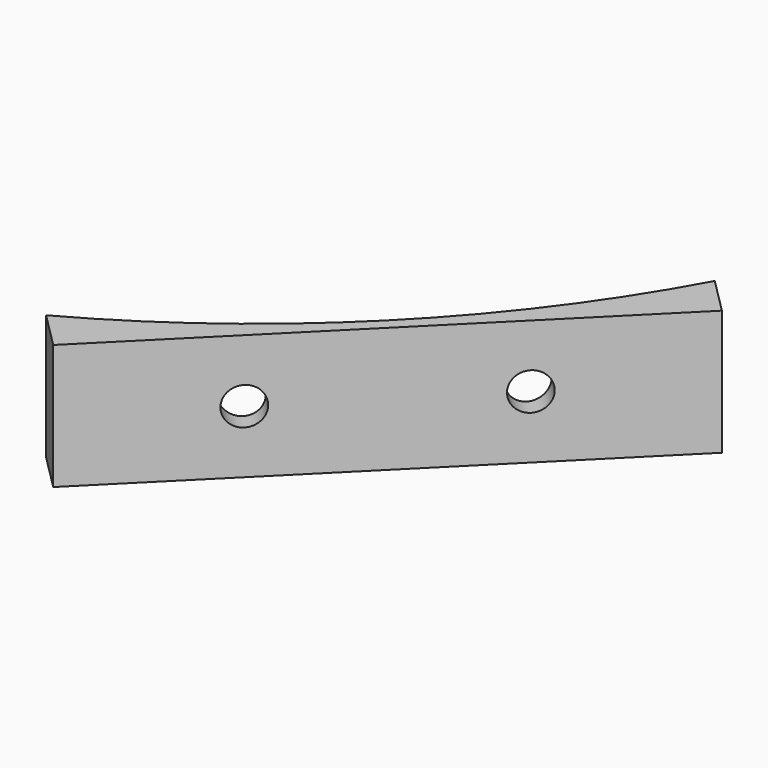
from build123d import *

# Parameters (mm, degrees)
CYLINDER1984_R               = 1.5
CYLINDER1984_DEPTH           = 50
COMPOUND1069_PLACEMENT_ANGLE = 225
CYLINDER1985_R               = 1.5
CYLINDER1985_DEPTH           = 50
COMPOUND1070_PLACEMENT_ANGLE = 225
CYLINDER1983_R               = 74
CYLINDER1983_DEPTH           = 40
BOX984_W                     = 42
BOX984_H                     = 8
BOX984_DEPTH                 = 10
COMPOUND1068_PLACEMENT_ANGLE = 225


with BuildPart() as compound1069:
    # Cylinder1984 → Cylinder1984 (new body)
    with BuildSketch(Plane(origin=(9, 100, 59), x_dir=(1, 0, 0), z_dir=(0, -1, 0))):
        Circle(CYLINDER1984_R)
    extrude(amount=CYLINDER1984_DEPTH)


with BuildPart() as compound1069_1:
    # Compound1069 placement: moved
    add(compound1069.part.rotate(Axis((0, 0, 0), (0, 0, 1)), COMPOUND1069_PLACEMENT_ANGLE))


with BuildPart() as compound1071:
    # Cylinder1985 → Cylinder1985 (new body)
    with BuildSketch(Plane(origin=(-9, 100, 59), x_dir=(1, 0, 0), z_dir=(0, -1, 0))):
        Circle(CYLINDER1985_R)
    extrude(amount=CYLINDER1985_DEPTH)


with BuildPart() as compound1071_1:
    # Compound1070 placement: moved
    add(compound1071.part.rotate(Axis((0, 0, 0), (0, 0, 1)), COMPOUND1070_PLACEMENT_ANGLE))

    # Compound1071: union Compound1069
    add(compound1069_1.part)


with BuildPart() as compound1071_2:
    # Compound1071 placement: moved
    add(compound1071_1.part.moved(Location((0, 0, 1))))


with BuildPart() as obj1:
    # Cylinder1983 → Cylinder1983 (new body)
    with BuildSketch(Plane.XY.offset(44)):
        Circle(CYLINDER1983_R)
    extrude(amount=CYLINDER1983_DEPTH)


with BuildPart() as cut668:
    # Box984 → Box984 (new body)
    with BuildSketch(Plane(origin=(-21, -23, 22), x_dir=(1, 0, 0), z_dir=(0, 0, 1))):
        with Locations((21, 4)):
            Rectangle(BOX984_W, BOX984_H)
    extrude(amount=BOX984_DEPTH)


with BuildPart() as cut668_1:
    # Compound1068 placement: moved
    add(cut668.part.moved(Location((63.64, -63.64, 43))).rotate(Axis((63.64, -63.64, 43), (0, 0, 1)), COMPOUND1068_PLACEMENT_ANGLE))

    # Cut667: cut obj1
    add(obj1.part, mode=Mode.SUBTRACT)


with BuildPart() as cut668_2:
    # Cut667 placement: moved
    add(cut668_1.part.moved(Location((0, 0, -10))))

    # Cut668: cut Compound1071
    add(compound1071_2.part, mode=Mode.SUBTRACT)


solid = cut668_2.part
